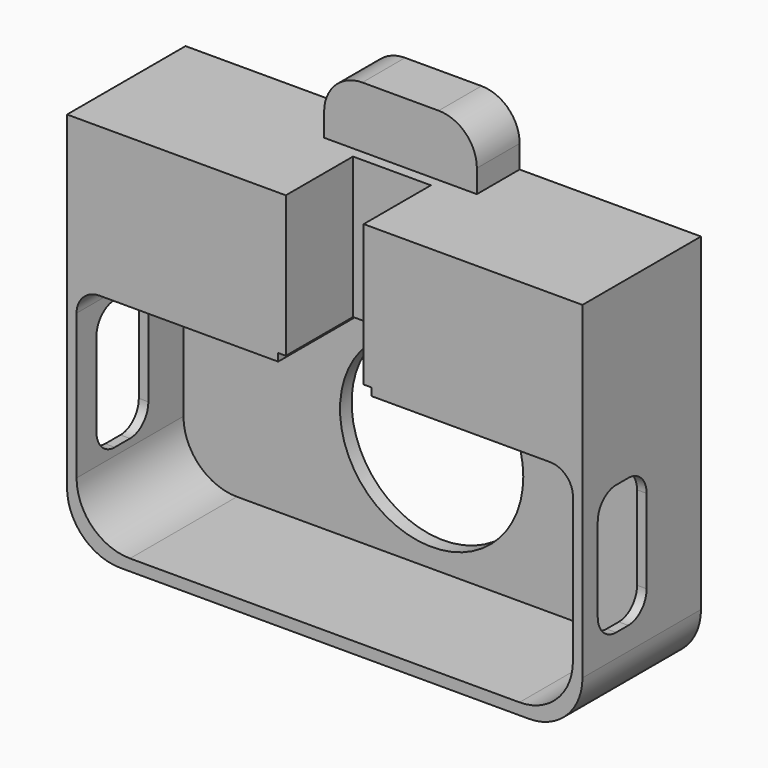
from build123d import *

# Parameters (mm, degrees)
F0_W      = 67.5
F0_H      = 19.4
F1_DEPTH  = 50
F3_DEPTH  = 17.5
F4_R      = 12
F5_DEPTH  = 1.9
F7_DEPTH  = 1.25
F8_DEPTH  = 11
F9_R      = 7
F11_DEPTH = 8
F12_R     = 5
F14_DEPTH = 1.25


with BuildPart() as f1:
    # F0 (on Top) → F1 (new body)
    with BuildSketch(Plane.XY):
        Rectangle(F0_W, F0_H)
    extrude(amount=F1_DEPTH)

    # F2 (on face) → F3 (cut)
    with BuildSketch(Plane.XZ.offset(9.7)):
        with BuildLine():
            Line((-6.1, 31.5), (-6.1, 30.5))
            Line((-6.1, 30.5), (-29.5, 30.5))
            ThreePointArc((-29.5, 30.5), (-31.62132, 29.62132), (-32.5, 27.5))
            Line((-32.5, 27.5), (-32.5, 1.5))
            Line((-32.5, 1.5), (0, 1.5))
            Line((0, 1.5), (32.5, 1.5))
            Line((32.5, 1.5), (32.5, 27.5))
            ThreePointArc((32.5, 27.5), (31.62132, 29.62132), (29.5, 30.5))
            Line((29.5, 30.5), (6.1, 30.5))
            Line((6.1, 30.5), (6.1, 31.5))
            Line((6.1, 31.5), (5.1, 31.5))
            Line((5.1, 31.5), (0, 31.5))
            Line((0, 31.5), (-5.1, 31.5))
            Line((-5.1, 31.5), (-6.1, 31.5))
        make_face()
    extrude(amount=-F3_DEPTH, mode=Mode.SUBTRACT)

    # F4 (on face) → F5 (cut, through all)
    with BuildSketch(Plane.XZ.offset(-7.8)):
        with Locations((0, 16)):
            Circle(F4_R)
    extrude(amount=-F5_DEPTH, mode=Mode.SUBTRACT)

    # F6 (on face) → F7 (cut, through all)
    with BuildSketch(Plane(origin=(-33.75, 0, 0), x_dir=(0, -1, 0), z_dir=(-1, 0, 0))):
        with BuildLine():
            Line((3.45, 26.5), (0.95, 26.5))
            ThreePointArc((0.95, 26.5), (-1.17132, 25.62132), (-2.05, 23.5))
            Line((-2.05, 23.5), (-2.05, 12.5))
            ThreePointArc((-2.05, 12.5), (-1.17132, 10.37868), (0.95, 9.5))
            Line((0.95, 9.5), (3.45, 9.5))
            ThreePointArc((3.45, 9.5), (5.57132, 10.37868), (6.45, 12.5))
            Line((6.45, 12.5), (6.45, 23.5))
            ThreePointArc((6.45, 23.5), (5.57132, 25.62132), (3.45, 26.5))
        make_face()
    extrude(amount=-F7_DEPTH, mode=Mode.SUBTRACT)

    # F2 (on face) → F8 (cut)
    with BuildSketch(Plane.XZ.offset(9.7)):
        Polygon((-5.1, 50), (-5.1, 31.5), (0, 31.5), (5.1, 31.5), (5.1, 50), (0, 50), align=None)
    extrude(amount=-F8_DEPTH, mode=Mode.SUBTRACT)

    # F9
    f9_edges = [f1.edges().sort_by_distance(p)[0] for p in [
        (32.5, -0.95, 1.5),
        (-33.75, 0, 0),
        (-32.5, -0.95, 1.5),
        (33.75, 0, 0),
    ]]
    fillet(f9_edges, radius=F9_R)

    # F10 (on face) → F11 (join)
    with BuildSketch(Plane.XY.offset(50)):
        Polygon((10, 9.7), (0, 9.7), (-10, 9.7), (-10, 2.7), (0, 2.7), (10, 2.7), align=None)
    extrude(amount=F11_DEPTH)

    # F12
    f12_edges = [f1.edges().sort_by_distance(p)[0] for p in [
        (10, 6.2, 58),
        (-10, 6.2, 58),
    ]]
    fillet(f12_edges, radius=F12_R)

    # F13 (on face) → F14 (cut, through all)
    with BuildSketch(Plane.YZ.offset(33.75)):
        with BuildLine():
            Line((-2.2, 27), (-4.2, 27))
            ThreePointArc((-4.2, 27), (-6.32132, 26.12132), (-7.2, 24))
            Line((-7.2, 24), (-7.2, 13))
            ThreePointArc((-7.2, 13), (-6.32132, 10.87868), (-4.2, 10))
            Line((-4.2, 10), (-2.2, 10))
            ThreePointArc((-2.2, 10), (-0.07868, 10.87868), (0.8, 13))
            Line((0.8, 13), (0.8, 24))
            ThreePointArc((0.8, 24), (-0.07868, 26.12132), (-2.2, 27))
        make_face()
    extrude(amount=-F14_DEPTH, mode=Mode.SUBTRACT)


solid = f1.part
